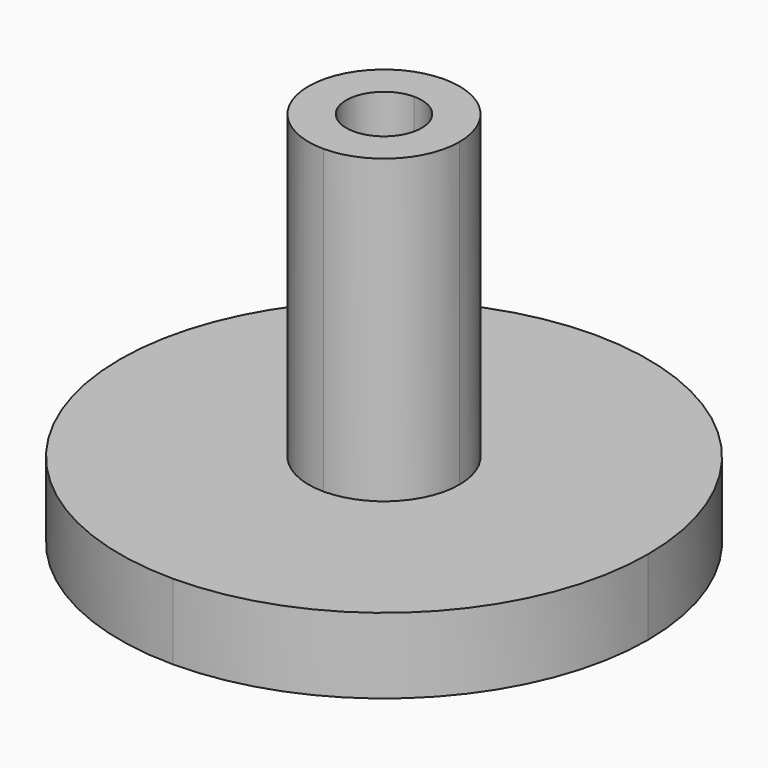
from build123d import *

# Parameters (mm, degrees)
F1_DEPTH = 2
F2_DEPTH = 2
F3_DEPTH = 10


with BuildPart() as f1:
    # F0 (on Top) → F1 (new body)
    with BuildSketch(Plane.XY):
        with BuildLine():
            Line((0, 2), (0, 7))
            ThreePointArc((0, 7), (-7, 0), (0, -7))
            Line((0, -7), (0, -2))
            ThreePointArc((0, -2), (-2, 0), (0, 2))
        make_face()
    extrude(amount=F1_DEPTH)



with BuildPart() as f2:
    # F0 (on Top) → F2 (new body)
    with BuildSketch(Plane.XY):
        with BuildLine():
            ThreePointArc((0, -7), (4.949747, -4.949747), (7, 0))
            ThreePointArc((7, 0), (4.949747, 4.949747), (0, 7))
            Line((0, 7), (0, 2))
            ThreePointArc((0, 2), (1.414214, 1.414214), (2, 0))
            ThreePointArc((2, 0), (1.414214, -1.414214), (0, -2))
            Line((0, -2), (0, -7))
        make_face()
    extrude(amount=F2_DEPTH)


with BuildPart() as f1_1:
    add(f1.part)

    add(f2.part)  # F3 merges F2
    # F0 (on Top) → F3 (join)
    with BuildSketch(Plane.XY):
        with BuildLine():
            ThreePointArc((2, 0), (1.414214, 1.414214), (0, 2))
            Line((0, 2), (0, 1))
            ThreePointArc((0, 1), (0.707107, 0.707107), (1, 0))
            ThreePointArc((1, 0), (0.707107, -0.707107), (0, -1))
            Line((0, -1), (0, -2))
            ThreePointArc((0, -2), (1.414214, -1.414214), (2, 0))
        make_face()
        with BuildLine():
            Line((0, 1), (0, 2))
            ThreePointArc((0, 2), (-2, 0), (0, -2))
            Line((0, -2), (0, -1))
            ThreePointArc((0, -1), (-1, 0), (0, 1))
        make_face()
    extrude(amount=F3_DEPTH)


solid = f1_1.part
